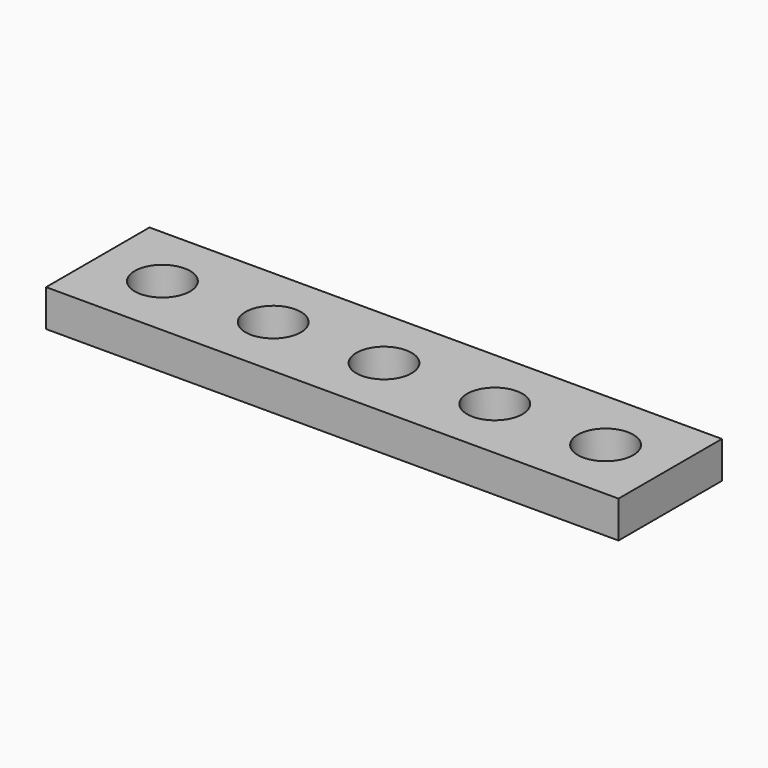
from build123d import *

# Parameters (mm, degrees)
CYLINDER_R     = 1.5
CYLINDER_DEPTH = 4
ARRAY_X_COUNT  = 5
ARRAY_X_PITCH  = 6
BOX_W          = 31
BOX_H          = 7
BOX_DEPTH      = 2


with BuildPart() as obj1:
    # Cylinder → Cylinder (new body)
    with BuildSketch(Plane.XY):
        Circle(CYLINDER_R)
    extrude(amount=CYLINDER_DEPTH)

    # Array X: obj1 ×5


with BuildPart() as obj1_1:
    add(obj1.part)
    with Locations(*[(i * ARRAY_X_PITCH, 0, 0) for i in range(1, ARRAY_X_COUNT)]):
        add(obj1.part)


with BuildPart() as obj1_2:
    # Array placement: moved
    add(obj1_1.part.moved(Location((3.5, 3.5, 0))))


with BuildPart() as cut:
    # Box → Box (new body)
    with BuildSketch(Plane.XY):
        with Locations((15.5, 3.5)):
            Rectangle(BOX_W, BOX_H)
    extrude(amount=BOX_DEPTH)

    # Cut: cut obj1
    add(obj1_2.part, mode=Mode.SUBTRACT)


solid = cut.part
